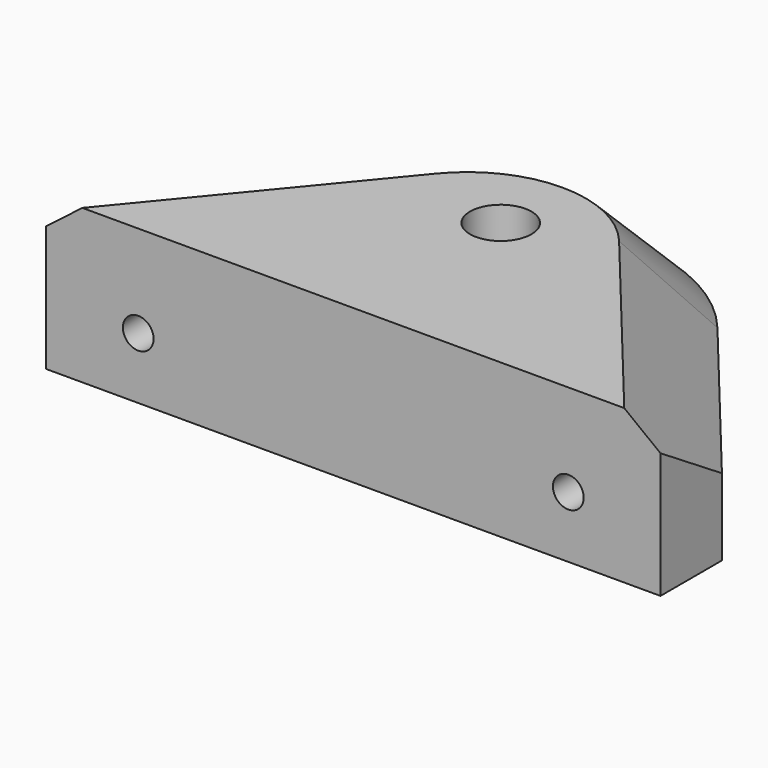
from build123d import *

# Parameters (mm, degrees)
F0_W     = 40
F0_H     = 5
F0_R     = 2
F1_DEPTH = 10
F2_R     = 1
F3_DEPTH = 10
F4_SIZE  = 5


with BuildPart() as f1:
    # F0 (on Top) → F1 (new body)
    with BuildSketch(Plane.XY):
        with Locations((0, -9.5)):
            Rectangle(F0_W, F0_H)
        with BuildLine():
            Line((-9.814244, 5.368419), (-20, -7))
            Line((-20, -7), (20, -7))
            Line((20, -7), (9.814244, 5.368419))
            ThreePointArc((9.814244, 5.368419), (5.426116, 8.783949), (0, 10))
            ThreePointArc((0, 10), (-5.426116, 8.783949), (-9.814244, 5.368419))
        make_face()
        Circle(F0_R, mode=Mode.SUBTRACT)
    extrude(amount=F1_DEPTH)

    # F2 (on face) → F3 (cut)
    with BuildSketch(Plane.XZ.offset(12)):
        with Locations((-14, 4)):
            Circle(F2_R)
        with Locations((14, 4)):
            Circle(F2_R)
    extrude(amount=-F3_DEPTH, mode=Mode.SUBTRACT)

    # F4
    f4_edges = [f1.edges().sort_by_distance(p)[0] for p in [
        (14.907122, -0.815791, 10),
    ]]
    chamfer(f4_edges, length=F4_SIZE)


solid = f1.part
